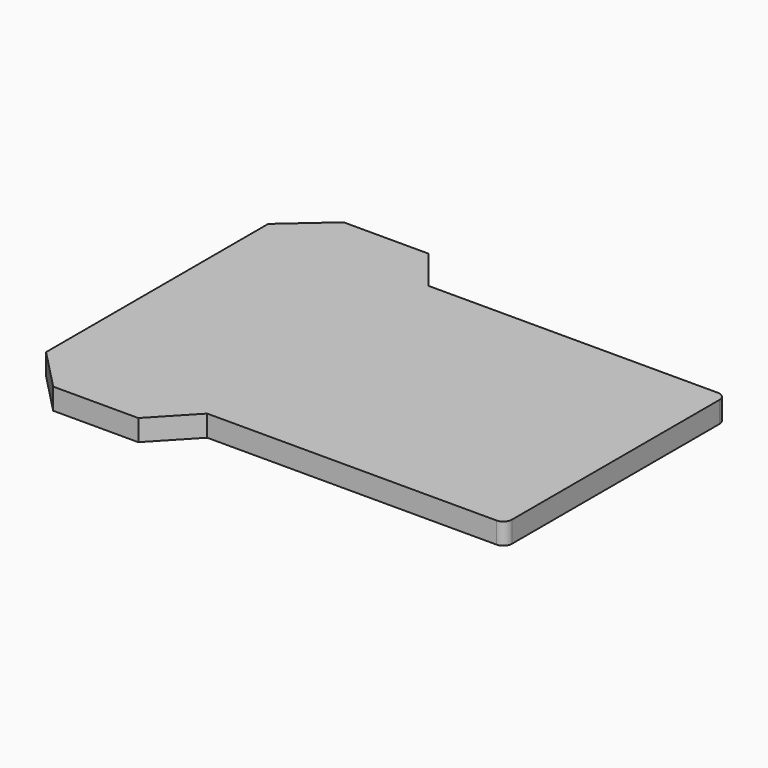
from build123d import *

# Parameters (mm, degrees)
BOX_W     = 20
BOX_H     = 30
BOX_DEPTH = 3
PAD_DEPTH = 5
FILLET_R  = 2


with BuildPart() as cubo:
    # Box → Box (new body)
    with BuildSketch(Plane(origin=(-55, -27, -3), x_dir=(1, 0, 0), z_dir=(0, 0, 1))):
        with Locations((10, 15)):
            Rectangle(BOX_W, BOX_H)
    extrude(amount=BOX_DEPTH)


with BuildPart() as fillet_body:
    # Sketch → Pad (new body)
    with BuildSketch(Plane.XY):
        Polygon((48.214441, 18.44022), (48.214441, -46.55978), (-21.785559, -46.55978), (-30.548117, -55.842846), (-50.548117, -55.842846), (-60.130928, -45.949108), (-60.130928, 19.287283), (-49.72015, 28.44022), (-29.72015, 28.44022), (-21.785559, 18.44022), align=None)
    extrude(amount=PAD_DEPTH)

    # Fusion: union Cubo
    add(cubo.part)

    # Fillet
    fillet_edges = [fillet_body.edges().sort_by_distance(p)[0] for p in [
        (48.214441, 18.44022, 2.5),
        (48.214441, -46.55978, 2.5),
    ]]
    fillet(fillet_edges, radius=FILLET_R)


solid = fillet_body.part
